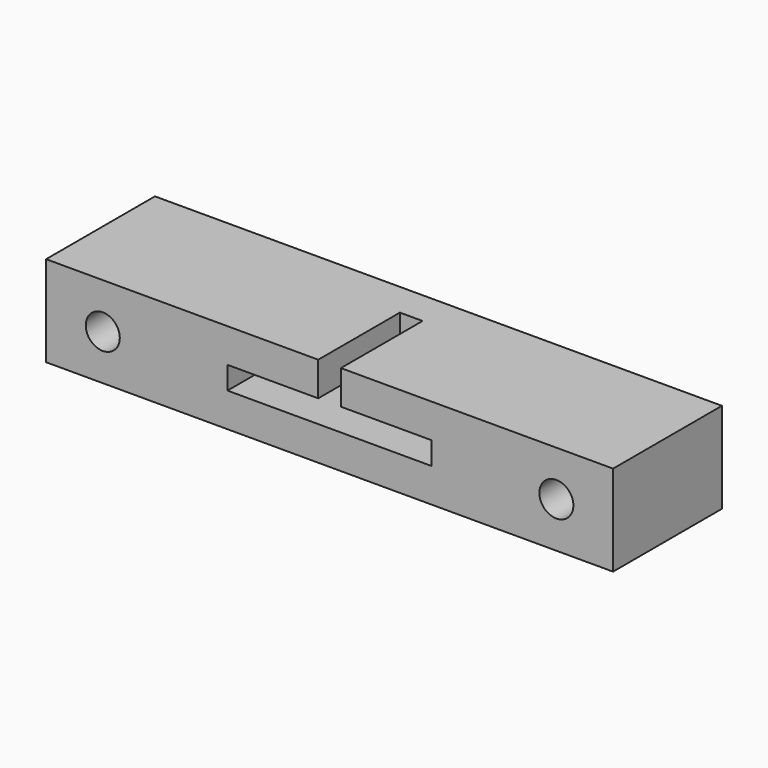
from build123d import *

# Parameters (mm, degrees)
F0_W     = 50
F0_H     = 12
F1_DEPTH = 8
F2_R     = 1.5
F3_DEPTH = 12
F4_DEPTH = 9


with BuildPart() as f1:
    # F0 (on Top) → F1 (new body)
    with BuildSketch(Plane.XY):
        with Locations((25, 6)):
            Rectangle(F0_W, F0_H)
    extrude(amount=F1_DEPTH)

    # F2 (on face) → F3 (cut)
    with BuildSketch(Plane.XZ):
        with Locations((5, 4)):
            Circle(F2_R)
        with Locations((45, 4)):
            Circle(F2_R)
    extrude(amount=-F3_DEPTH, mode=Mode.SUBTRACT)

    # F2 (on face) → F4 (cut)
    with BuildSketch(Plane.XZ):
        Polygon((26, 8), (24, 8), (24, 5), (16, 5), (16, 3), (34, 3), (34, 5), (26, 5), align=None)
    extrude(amount=-F4_DEPTH, mode=Mode.SUBTRACT)


solid = f1.part
